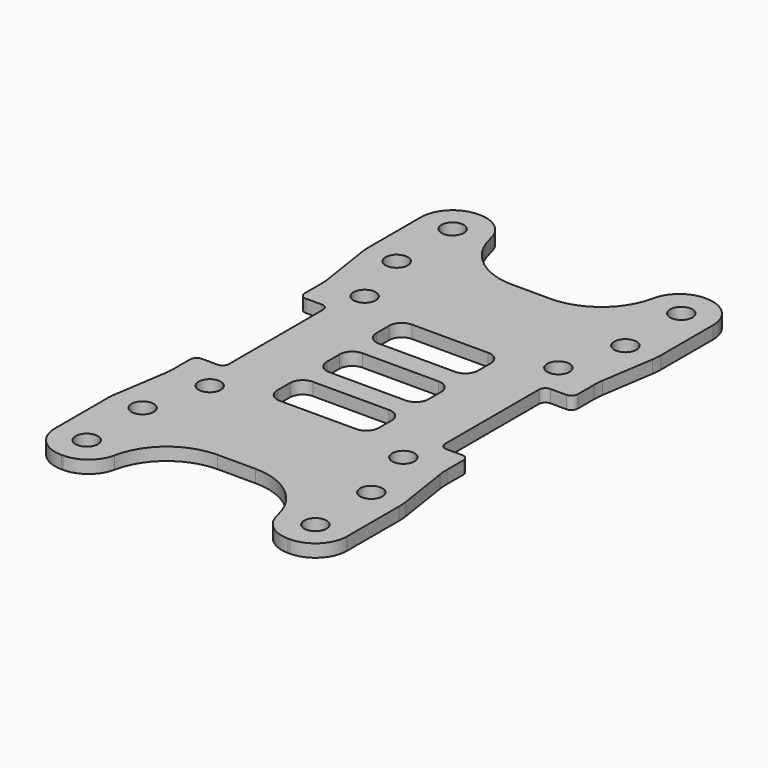
from build123d import *

# Parameters (mm, degrees)
F0_R     = 1.75
F1_DEPTH = 2
F2_R     = 5


with BuildPart() as f1:
    # F0 (on Top) → F1 (new body)
    with BuildSketch(Plane.XY):
        with BuildLine():
            Line((-13, 41), (-18, 41))
            ThreePointArc((-18, 41), (-21.5355339059, 39.5355339059), (-23, 36))
            Line((-23, 36), (-23, 25.7647321898))
            ThreePointArc((-23, 25.7647321898), (-22.9708868654, 25.0022263751), (-22.8837169765, 24.2441603473))
            Line((-22.8837169765, 24.2441603473), (-21.6162830235, 16.0058396527))
            ThreePointArc((-21.6162830235, 16.0058396527), (-21.5291131346, 15.2477736249), (-21.5, 14.4852678102))
            Line((-21.5, 14.4852678102), (-21.5, 11.25))
            ThreePointArc((-21.5, 11.25), (-21.2071067812, 10.5428932188), (-20.5, 10.25))
            Line((-20.5, 10.25), (-18, 10.25))
            ThreePointArc((-18, 10.25), (-17.2928932188, 9.9571067812), (-17, 9.25))
            Line((-17, 9.25), (-17, -9.25))
            ThreePointArc((-17, -9.25), (-17.2928932188, -9.9571067812), (-18, -10.25))
            Line((-18, -10.25), (-20.5, -10.25))
            ThreePointArc((-20.5, -10.25), (-21.2071067812, -10.5428932188), (-21.5, -11.25))
            Line((-21.5, -11.25), (-21.5, -14.4852678102))
            ThreePointArc((-21.5, -14.4852678102), (-21.5291131346, -15.2477736249), (-21.6162830235, -16.0058396527))
            Line((-21.6162830235, -16.0058396527), (-22.8837169765, -24.2441603473))
            ThreePointArc((-22.8837169765, -24.2441603473), (-22.9708868654, -25.0022263751), (-23, -25.7647321898))
            Line((-23, -25.7647321898), (-23, -36))
            ThreePointArc((-23, -36), (-21.5355339059, -39.5355339059), (-18, -41))
            Line((-18, -41), (-13, -41))
            Line((-13, -41), (-13, -39))
            ThreePointArc((-13, -39), (-10.0710678119, -31.9289321881), (-3, -29))
            Line((-3, -29), (0, -29))
            Line((0, -29), (3, -29))
            ThreePointArc((3, -29), (10.0710678119, -31.9289321881), (13, -39))
            Line((13, -39), (13, -41))
            Line((13, -41), (18, -41))
            ThreePointArc((18, -41), (21.5355339059, -39.5355339059), (23, -36))
            Line((23, -36), (23, -25.7647321898))
            ThreePointArc((23, -25.7647321898), (22.9708868654, -25.0022263751), (22.8837169765, -24.2441603473))
            Line((22.8837169765, -24.2441603473), (21.6162830235, -16.0058396527))
            ThreePointArc((21.6162830235, -16.0058396527), (21.5291131346, -15.2477736249), (21.5, -14.4852678102))
            Line((21.5, -14.4852678102), (21.5, -11.25))
            ThreePointArc((21.5, -11.25), (21.2071067812, -10.5428932188), (20.5, -10.25))
            Line((20.5, -10.25), (18, -10.25))
            ThreePointArc((18, -10.25), (17.2928932188, -9.9571067812), (17, -9.25))
            Line((17, -9.25), (17, 9.25))
            ThreePointArc((17, 9.25), (17.2928932188, 9.9571067812), (18, 10.25))
            Line((18, 10.25), (20.5, 10.25))
            ThreePointArc((20.5, 10.25), (21.2071067812, 10.5428932188), (21.5, 11.25))
            Line((21.5, 11.25), (21.5, 14.4852678102))
            ThreePointArc((21.5, 14.4852678102), (21.5291131346, 15.2477736249), (21.6162830235, 16.0058396527))
            Line((21.6162830235, 16.0058396527), (22.8837169765, 24.2441603473))
            ThreePointArc((22.8837169765, 24.2441603473), (22.9708868654, 25.0022263751), (23, 25.7647321898))
            Line((23, 25.7647321898), (23, 36))
            ThreePointArc((23, 36), (21.5355339059, 39.5355339059), (18, 41))
            Line((18, 41), (13, 41))
            Line((13, 41), (13, 39))
            ThreePointArc((13, 39), (10.0710678119, 31.9289321881), (3, 29))
            Line((3, 29), (0, 29))
            Line((0, 29), (-3, 29))
            ThreePointArc((-3, 29), (-10.0710678119, 31.9289321881), (-13, 39))
            Line((-13, 39), (-13, 41))
        make_face()
        with Locations((-18, -36)):
            Circle(F0_R, mode=Mode.SUBTRACT)
        with Locations((-18, -25)):
            Circle(F0_R, mode=Mode.SUBTRACT)
        with Locations((-15.25, -15.25)):
            Circle(F0_R, mode=Mode.SUBTRACT)
        with Locations((18, -36)):
            Circle(F0_R, mode=Mode.SUBTRACT)
        with Locations((18, -25)):
            Circle(F0_R, mode=Mode.SUBTRACT)
        with BuildLine():
            Line((6, -13), (-6, -13))
            ThreePointArc((-6, -13), (-7.4142135624, -12.4142135624), (-8, -11))
            Line((-8, -11), (-8, -8.5))
            ThreePointArc((-8, -8.5), (-7.4142135624, -7.0857864376), (-6, -6.5))
            Line((-6, -6.5), (6, -6.5))
            ThreePointArc((6, -6.5), (7.4142135624, -7.0857864376), (8, -8.5))
            Line((8, -8.5), (8, -11))
            ThreePointArc((8, -11), (7.4142135624, -12.4142135624), (6, -13))
        make_face(mode=Mode.SUBTRACT)
        with Locations((15.25, -15.25)):
            Circle(F0_R, mode=Mode.SUBTRACT)
        with Locations((-15.25, 15.25)):
            Circle(F0_R, mode=Mode.SUBTRACT)
        with Locations((-18, 25)):
            Circle(F0_R, mode=Mode.SUBTRACT)
        with Locations((-18, 36)):
            Circle(F0_R, mode=Mode.SUBTRACT)
        with BuildLine():
            ThreePointArc((-8, 1.25), (-7.4142135624, 2.6642135624), (-6, 3.25))
            Line((-6, 3.25), (6, 3.25))
            ThreePointArc((6, 3.25), (7.4142135624, 2.6642135624), (8, 1.25))
            Line((8, 1.25), (8, -1.25))
            ThreePointArc((8, -1.25), (7.4142135624, -2.6642135624), (6, -3.25))
            Line((6, -3.25), (-6, -3.25))
            ThreePointArc((-6, -3.25), (-7.4142135624, -2.6642135624), (-8, -1.25))
            Line((-8, -1.25), (-8, 1.25))
        make_face(mode=Mode.SUBTRACT)
        with BuildLine():
            ThreePointArc((-8, 11), (-7.4142135624, 12.4142135624), (-6, 13))
            Line((-6, 13), (6, 13))
            ThreePointArc((6, 13), (7.4142135624, 12.4142135624), (8, 11))
            Line((8, 11), (8, 8.5))
            ThreePointArc((8, 8.5), (7.4142135624, 7.0857864376), (6, 6.5))
            Line((6, 6.5), (-6, 6.5))
            ThreePointArc((-6, 6.5), (-7.4142135624, 7.0857864376), (-8, 8.5))
            Line((-8, 8.5), (-8, 11))
        make_face(mode=Mode.SUBTRACT)
        with Locations((15.25, 15.25)):
            Circle(F0_R, mode=Mode.SUBTRACT)
        with Locations((18, 25)):
            Circle(F0_R, mode=Mode.SUBTRACT)
        with Locations((18, 36)):
            Circle(F0_R, mode=Mode.SUBTRACT)
    extrude(amount=F1_DEPTH)

    # F2
    f2_edges = [f1.edges().sort_by_distance(p)[0] for p in [
        (-13, -41, 1),
        (13, -41, 1),
        (-13, 41, 1),
        (13, 41, 1),
    ]]
    fillet(f2_edges, radius=F2_R)


solid = f1.part
